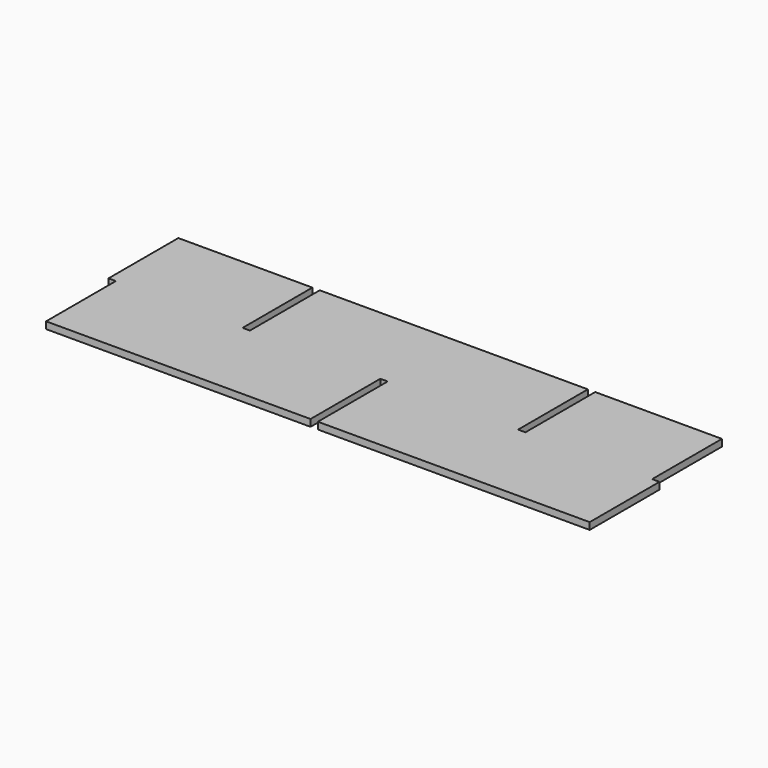
from build123d import *

# Parameters (mm, degrees)
F1_DEPTH = 9.525


with BuildPart() as f1:
    # F0 (on Top) → F1 (new body, symmetric)
    with BuildSketch(Plane.XY):
        Polygon((741.68, 0), (741.68, 241.3), (391.16, 241.3), (391.16, 0), (370.84, 0), (370.84, 241.3), (-370.84, 241.3), (-370.84, 0), (-391.16, 0), (-391.16, 241.3), (-762, 241.3), (-762, 0), (-741.68, 0), (-741.68, -241.3), (-10.16, -241.3), (-10.16, 0), (10.16, 0), (10.16, -241.3), (762, -241.3), (762, 0), align=None)
    extrude(amount=F1_DEPTH, both=True)


solid = f1.part
